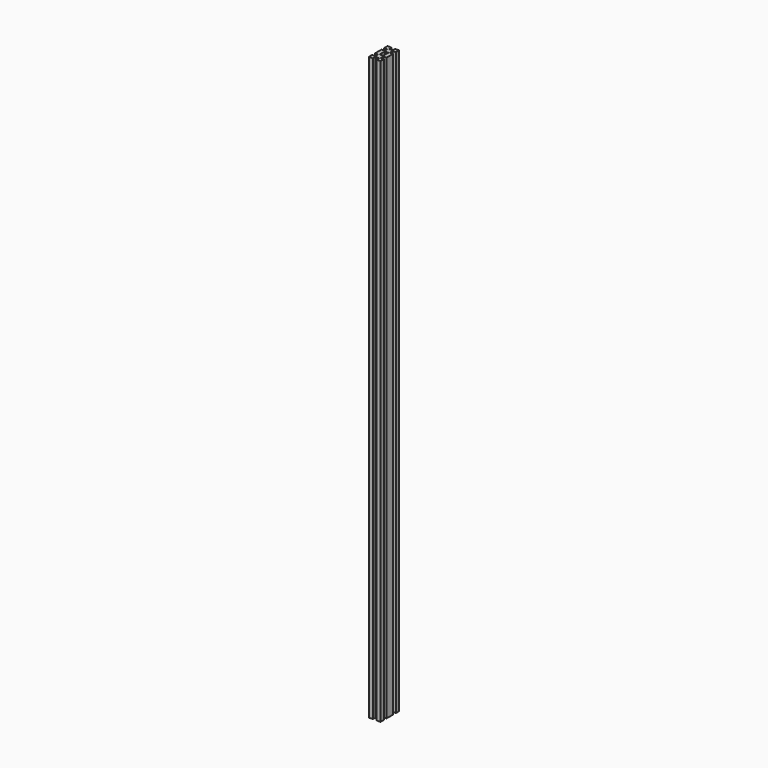
from build123d import *

# Parameters (mm, degrees)
F1_DEPTH = 1000


with BuildPart() as f1:
    # F0 (on Top) → F1 (new body)
    with BuildSketch(Plane.XY):
        Polygon((0, 7), (0, 0), (7, 0), (7, 5.5), (13, 5.5), (13, 0), (20, 0), (20, 7), (14.5, 7), (14.5, 13), (20, 13), (20, 20), (13, 20), (13, 14.5), (7, 14.5), (7, 20), (0, 20), (0, 13), (5.5, 13), (5.5, 7), align=None)
        Polygon((7, 0), (0, 0), (0, -7), (5.5, -7), (5.5, -13), (0, -13), (0, -20), (7, -20), (7, -14.5), (13, -14.5), (13, -20), (20, -20), (20, -13), (14.5, -13), (14.5, -7), (20, -7), (20, 0), (13, 0), (13, -5.5), (7, -5.5), align=None)
    extrude(amount=F1_DEPTH)


solid = f1.part
